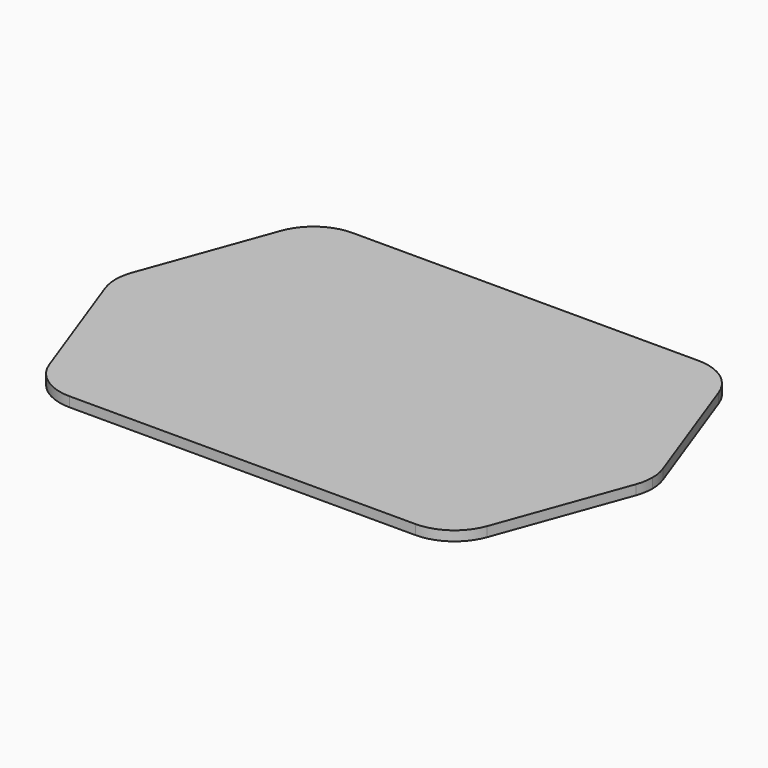
from build123d import *

# Parameters (mm, degrees)
F1_DEPTH = 8


with BuildPart() as f1:
    # F0 (on Top) → F1 (new body)
    with BuildSketch(Plane.XY):
        with BuildLine():
            Line((-179.37083, 118.680806), (-217.587705, 13.680806))
            ThreePointArc((-217.587705, 13.680806), (-219.39231, 6.945927), (-220, 0))
            ThreePointArc((-220, 0), (-219.39231, -6.945927), (-217.587705, -13.680806))
            Line((-217.587705, -13.680806), (-179.37083, -118.680806))
            ThreePointArc((-179.37083, -118.680806), (-164.726183, -137.766082), (-141.783125, -145))
            Line((-141.783125, -145), (0, -145))
            Line((0, -145), (141.783125, -145))
            ThreePointArc((141.783125, -145), (164.726183, -137.766082), (179.37083, -118.680806))
            Line((179.37083, -118.680806), (217.587705, -13.680806))
            ThreePointArc((217.587705, -13.680806), (219.39231, -6.945927), (220, 0))
            ThreePointArc((220, 0), (219.39231, 6.945927), (217.587705, 13.680806))
            Line((217.587705, 13.680806), (179.37083, 118.680806))
            ThreePointArc((179.37083, 118.680806), (164.726183, 137.766082), (141.783125, 145))
            Line((141.783125, 145), (0, 145))
            Line((0, 145), (-141.783125, 145))
            ThreePointArc((-141.783125, 145), (-164.726183, 137.766082), (-179.37083, 118.680806))
        make_face()
    extrude(amount=F1_DEPTH)


solid = f1.part
